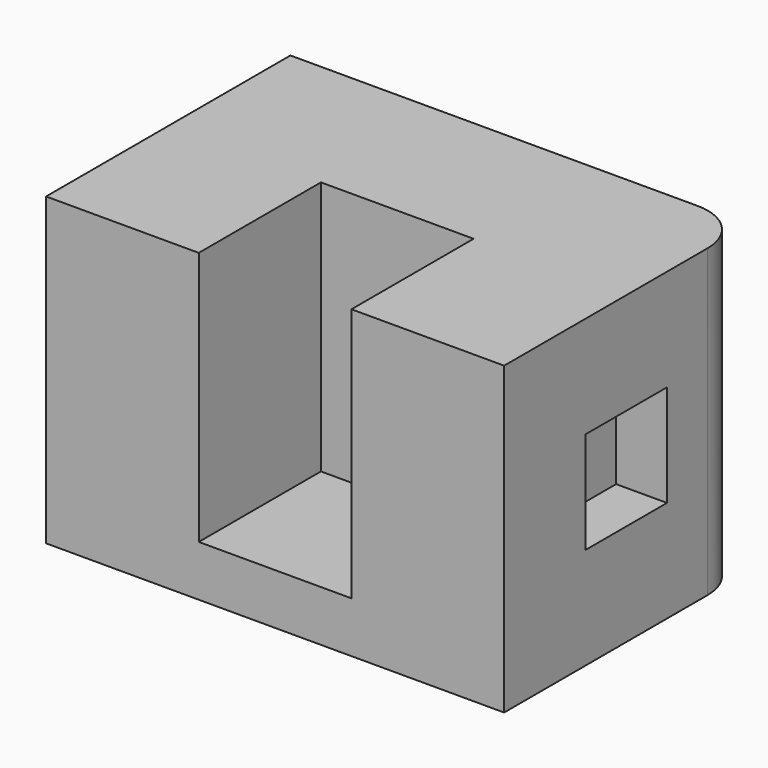
from build123d import *

# Parameters (mm, degrees)
F0_W     = 228.6
F0_H     = 152.4
F1_DEPTH = 76.2
F2_W     = 76.2
F2_H     = 76.2
F3_DEPTH = 127
F4_R     = 25.4
F5_W     = 50.8
F5_H     = 50.8
F6_DEPTH = 25.4


with BuildPart() as f1:
    # F0 (on Front) → F1 (new body, symmetric)
    with BuildSketch(Plane.XZ):
        Rectangle(F0_W, F0_H)
    extrude(amount=F1_DEPTH, both=True)

    # F2 (on face) → F3 (cut)
    with BuildSketch(Plane.XY.offset(76.2)):
        with Locations((0, -38.1)):
            Rectangle(F2_W, F2_H)
    extrude(amount=-F3_DEPTH, mode=Mode.SUBTRACT)

    # F4
    f4_edges = [f1.edges().sort_by_distance(p)[0] for p in [
        (114.3, 76.2, 0),
    ]]
    fillet(f4_edges, radius=F4_R)

    # F5 (on face) → F6 (cut)
    with BuildSketch(Plane.YZ.offset(114.3)):
        Rectangle(F5_W, F5_H)
    extrude(amount=-F6_DEPTH, mode=Mode.SUBTRACT)


solid = f1.part
